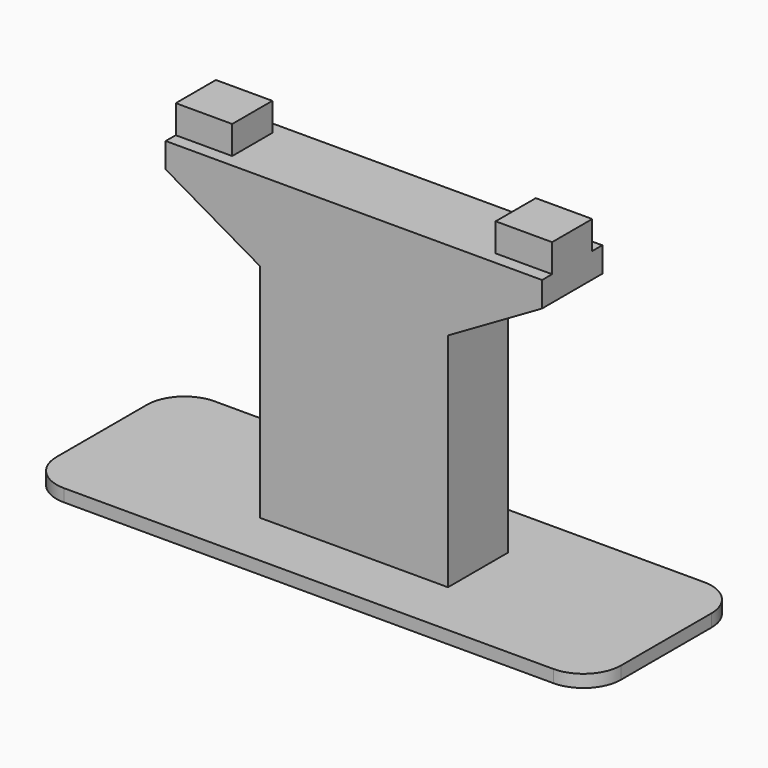
from build123d import *

# Parameters (mm, degrees)
F4_DEPTH = 3
F5_DEPTH = 7.5
F3_W     = 4.5
F3_H     = 2.25
F6_DEPTH = 2
F7_R     = 3


with BuildPart() as f4:
    # F3 (on Front) → F4 (new body, symmetric)
    with BuildSketch(Plane.XZ):
        Polygon((-7.5, 18.6698729811), (-7.5, 1), (7.5, 1), (7.5, 18.6698729811), (15, 23), (15, 25), (10.5, 25), (-10.5, 25), (-15, 25), (-15, 23), align=None)
    extrude(amount=F4_DEPTH, both=True)

    # F3 (on Front) → F5 (join, symmetric)
    with BuildSketch(Plane.XZ):
        Polygon((-22.5, 1), (-22.5, 0), (22.5, 0), (22.5, 1), (7.5, 1), (-7.5, 1), align=None)
    extrude(amount=F5_DEPTH, both=True)

    # F3 (on Front) → F6 (join, symmetric)
    with BuildSketch(Plane.XZ):
        with Locations((12.75, 26.125)):
            Rectangle(F3_W, F3_H)
        with Locations((-12.75, 26.125)):
            Rectangle(F3_W, F3_H)
    extrude(amount=F6_DEPTH, both=True)

    # F7
    f7_edges = [f4.edges().sort_by_distance(p)[0] for p in [
        (22.5, -7.5, 0.5),
        (22.5, 7.5, 0.5),
        (-22.5, 7.5, 0.5),
        (-22.5, -7.5, 0.5),
    ]]
    fillet(f7_edges, radius=F7_R)


solid = f4.part
